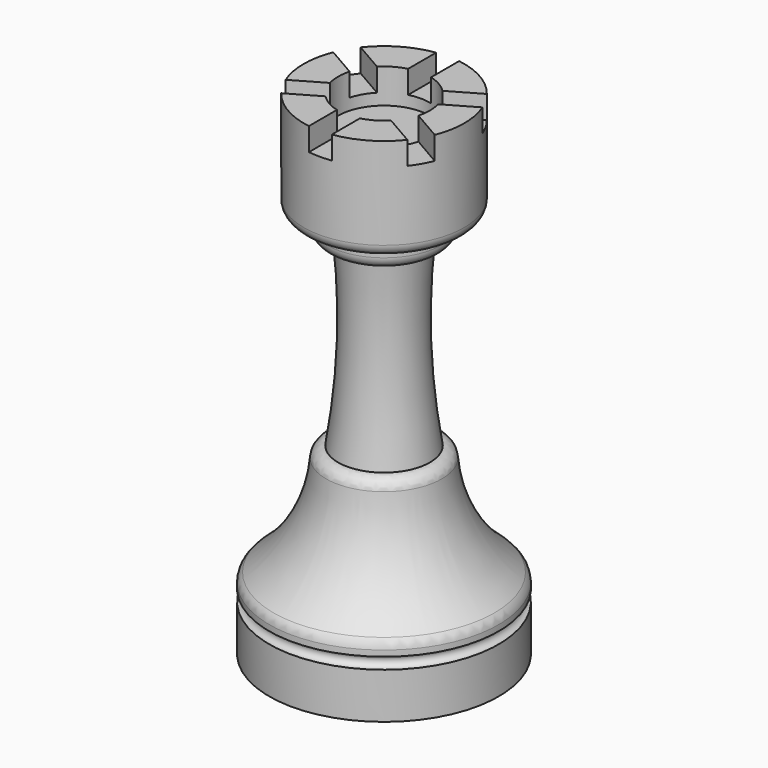
from build123d import *

# Parameters (mm, degrees)
F2_R     = 1
F3_R     = 1
F5_DEPTH = 2
F6_DEPTH = 2


with BuildPart() as f1:
    # F0 (on Front) → F1 (revolve)
    with BuildSketch(Plane.XZ):
        with BuildLine():
            Line((-10, 0), (0, 0))
            Line((0, 0), (0, 40))
            Line((0, 40), (-4, 40))
            Line((-4, 40), (-4, 43))
            Line((-4, 43), (-7, 43))
            Line((-7, 43), (-7, 34))
            Line((-7, 34), (-5, 34))
            Line((-5, 34), (-5, 32))
            Line((-5, 32), (-3.5, 32))
            ThreePointArc((-3.5, 32), (-3.214011, 23.98325), (-4, 16))
            Line((-4, 16), (-5, 16))
            ThreePointArc((-5, 16), (-6.31966, 10.40983), (-10, 6))
            Line((-10, 6), (-10, 5))
            ThreePointArc((-10, 5), (-9.5, 4.5), (-10, 4))
            Line((-10, 4), (-10, 0))
        make_face()
    revolve(axis=Axis((0, 0, 27.062729), (0, 0, 1)))

    # F2
    f2_edges = [f1.edges().sort_by_distance(p)[0] for p in [
        (10, 0, 6),
        (5, 0, 16),
    ]]
    fillet(f2_edges, radius=F2_R)

    # F3
    f3_edges = [f1.edges().sort_by_distance(p)[0] for p in [
        (7, 0, 34),
        (5, 0, 32),
    ]]
    fillet(f3_edges, radius=F3_R)

    # F4 (on face) → F5 (cut)
    with BuildSketch(Plane.XY.offset(43)):
        with BuildLine():
            ThreePointArc((1, 6.928203), (0, 7), (-1, 6.928203))
            Line((-1, 6.928203), (-1, 3.872983))
            ThreePointArc((-1, 3.872983), (0, 4), (1, 3.872983))
            Line((1, 3.872983), (1, 6.928203))
        make_face()
    extrude(amount=-F5_DEPTH, mode=Mode.SUBTRACT)

    # F4 (on face) → F6 (cut)
    with BuildSketch(Plane.XY.offset(43)):
        with BuildLine():
            Line((-2.854102, 2.802517), (-5.5, 4.330127))
            ThreePointArc((-5.5, 4.330127), (-6.062178, 3.5), (-6.5, 2.598076))
            Line((-6.5, 2.598076), (-3.854102, 1.070466))
            ThreePointArc((-3.854102, 1.070466), (-3.464102, 2), (-2.854102, 2.802517))
        make_face()
        with BuildLine():
            Line((-3.854102, -1.070466), (-6.5, -2.598076))
            ThreePointArc((-6.5, -2.598076), (-6.062178, -3.5), (-5.5, -4.330127))
            Line((-5.5, -4.330127), (-2.854102, -2.802517))
            ThreePointArc((-2.854102, -2.802517), (-3.464102, -2), (-3.854102, -1.070466))
        make_face()
        with BuildLine():
            Line((-1, -3.872983), (-1, -6.928203))
            ThreePointArc((-1, -6.928203), (0, -7), (1, -6.928203))
            Line((1, -6.928203), (1, -3.872983))
            ThreePointArc((1, -3.872983), (0, -4), (-1, -3.872983))
        make_face()
        with BuildLine():
            ThreePointArc((5.5, -4.330127), (6.062178, -3.5), (6.5, -2.598076))
            Line((6.5, -2.598076), (3.854102, -1.070466))
            ThreePointArc((3.854102, -1.070466), (3.464102, -2), (2.854102, -2.802517))
            Line((2.854102, -2.802517), (5.5, -4.330127))
        make_face()
        with BuildLine():
            ThreePointArc((6.5, 2.598076), (6.062178, 3.5), (5.5, 4.330127))
            Line((5.5, 4.330127), (2.854102, 2.802517))
            ThreePointArc((2.854102, 2.802517), (3.464102, 2), (3.854102, 1.070466))
            Line((3.854102, 1.070466), (6.5, 2.598076))
        make_face()
    extrude(amount=-F6_DEPTH, mode=Mode.SUBTRACT)


solid = f1.part
